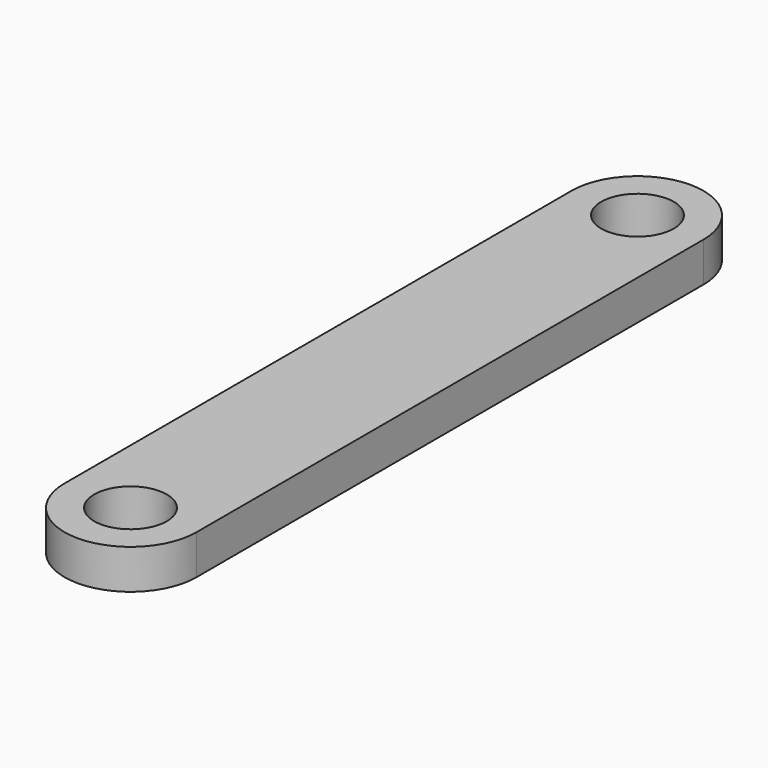
from build123d import *

# Parameters (mm, degrees)
SKETCH_R  = 2.75
PAD_DEPTH = 3


with BuildPart() as part:
    # Sketch → Pad (new body)
    with BuildSketch(Plane.XY):
        with BuildLine():
            ThreePointArc((5, 48), (0, 53), (-5, 48))
            Line((-5, 48), (-5, 0))
            ThreePointArc((-5, 0), (0, -5), (5, 0))
            Line((5, 48), (5, 0))
        make_face()
        with Locations((0, 48)):
            Circle(SKETCH_R, mode=Mode.SUBTRACT)
        Circle(SKETCH_R, mode=Mode.SUBTRACT)
    extrude(amount=PAD_DEPTH)


solid = part.part
